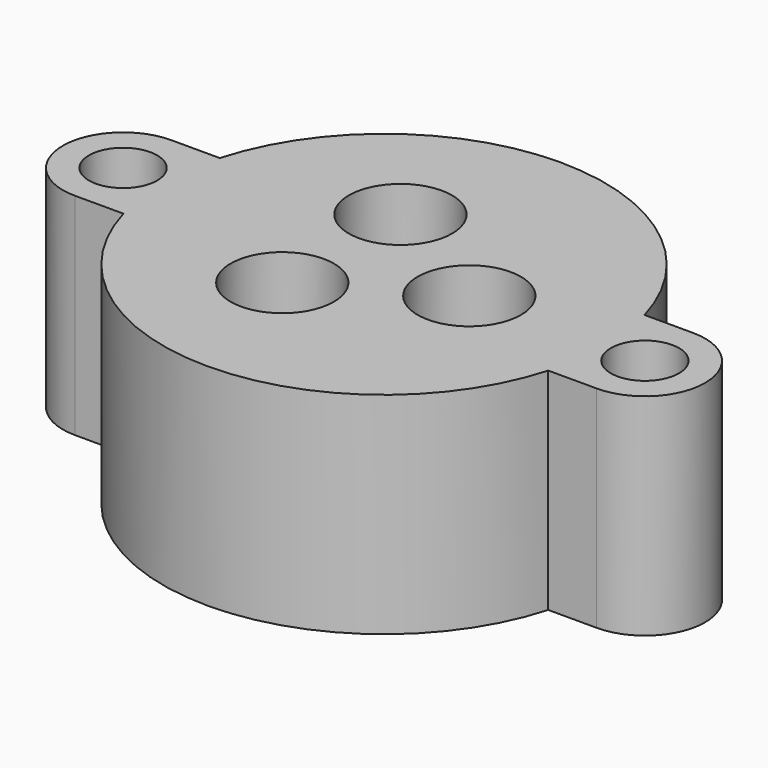
from build123d import *

# Parameters (mm, degrees)
CYLINDER161_R     = 1.7
CYLINDER161_DEPTH = 11
CYLINDER163_R     = 7.14375
CYLINDER163_DEPTH = 2.38125
CYLINDER160_R     = 9.525
CYLINDER160_DEPTH = 2.38125
CYLINDER167_R     = 2.2
CYLINDER167_DEPTH = 9
CYLINDER166_R     = 0.8
CYLINDER166_DEPTH = 5
CYLINDER162_R     = 2.575
CYLINDER162_DEPTH = 6
ARRAY001_COUNT    = 3
CYLINDER165_R     = 1.7
CYLINDER165_DEPTH = 11
BOX002_W          = 3
BOX002_H          = 6
BOX002_DEPTH      = 10.5
BOX003_W          = 3
BOX003_H          = 6
BOX003_DEPTH      = 10.5
CYLINDER168_R     = 3
CYLINDER168_DEPTH = 10.5
CYLINDER164_R     = 11
CYLINDER164_DEPTH = 10.5
CYLINDER169_R     = 3
CYLINDER169_DEPTH = 10.5


with BuildPart() as obj1:
    # Cylinder161 → Cylinder161 (new body)
    with BuildSketch(Plane(origin=(-13, 0, 0), x_dir=(1, 0, 0), z_dir=(0, 0, 1))):
        Circle(CYLINDER161_R)
    extrude(amount=CYLINDER161_DEPTH)


with BuildPart() as cylinder011:
    # Cylinder163 → Cylinder163 (new body)
    with BuildSketch(Plane.XY):
        Circle(CYLINDER163_R)
    extrude(amount=CYLINDER163_DEPTH)


with BuildPart() as oring001:
    # Cylinder160 → Cylinder160 (new body)
    with BuildSketch(Plane.XY):
        Circle(CYLINDER160_R)
    extrude(amount=CYLINDER160_DEPTH)

    # Cut022: cut Cylinder011
    add(cylinder011.part, mode=Mode.SUBTRACT)


with BuildPart() as oring001_1:
    # Cut022 placement: moved
    add(oring001.part.moved(Location((0, 0, -0.75))))


with BuildPart() as sealsubtraction001:
    # Cylinder167 → Cylinder167 (new body)
    with BuildSketch(Plane.XY.offset(1.3)):
        Circle(CYLINDER167_R)
    extrude(amount=CYLINDER167_DEPTH)


with BuildPart() as bottomwireoutlet001:
    # Cylinder166 → Cylinder166 (new body)
    with BuildSketch(Plane.XY.offset(-2)):
        Circle(CYLINDER166_R)
    extrude(amount=CYLINDER166_DEPTH)


with BuildPart() as sealarray001:
    # Cylinder162 → Cylinder162 (new body)
    with BuildSketch(Plane.XY.offset(4.5)):
        Circle(CYLINDER162_R)
    extrude(amount=CYLINDER162_DEPTH)

    # Fusion004: union SealSubtraction001, BottomWireOutlet001
    add(sealsubtraction001.part)
    add(bottomwireoutlet001.part)


with BuildPart() as sealarray001_1:
    # Fusion004 placement: moved
    add(sealarray001.part.moved(Location((4.25, 0, 0))))

    # Array001: SealArray001 ×3 about axis
    array001_axis = Axis((0, 0, 0), (0, 0, 1))


with BuildPart() as sealarray001_2:
    add(sealarray001_1.part)
    for i in range(1, ARRAY001_COUNT):
        add(sealarray001_1.part.rotate(array001_axis, i * 360 / ARRAY001_COUNT))


with BuildPart() as fusion005:
    # Cylinder165 → Cylinder165 (new body)
    with BuildSketch(Plane(origin=(13, 0, 0), x_dir=(1, 0, 0), z_dir=(0, 0, 1))):
        Circle(CYLINDER165_R)
    extrude(amount=CYLINDER165_DEPTH)

    # Fusion005: union obj1, Oring001, SealArray001
    add(obj1.part)
    add(oring001_1.part)
    add(sealarray001_2.part)


with BuildPart() as mountcube003:
    # Box002 → Box002 (new body)
    with BuildSketch(Plane(origin=(10, -3, 0), x_dir=(1, 0, 0), z_dir=(0, 0, 1))):
        with Locations((1.5, 3)):
            Rectangle(BOX002_W, BOX002_H)
    extrude(amount=BOX002_DEPTH)


with BuildPart() as mountcube004:
    # Box003 → Box003 (new body)
    with BuildSketch(Plane(origin=(-13, -3, 0), x_dir=(1, 0, 0), z_dir=(0, 0, 1))):
        with Locations((1.5, 3)):
            Rectangle(BOX003_W, BOX003_H)
    extrude(amount=BOX003_DEPTH)


with BuildPart() as mountflange003:
    # Cylinder168 → Cylinder168 (new body)
    with BuildSketch(Plane(origin=(-13, 0, 0), x_dir=(1, 0, 0), z_dir=(0, 0, 1))):
        Circle(CYLINDER168_R)
    extrude(amount=CYLINDER168_DEPTH)


with BuildPart() as body001:
    # Cylinder164 → Cylinder164 (new body)
    with BuildSketch(Plane.XY):
        Circle(CYLINDER164_R)
    extrude(amount=CYLINDER164_DEPTH)


with BuildPart() as cut021:
    # Cylinder169 → Cylinder169 (new body)
    with BuildSketch(Plane(origin=(13, 0, 0), x_dir=(1, 0, 0), z_dir=(0, 0, 1))):
        Circle(CYLINDER169_R)
    extrude(amount=CYLINDER169_DEPTH)

    # Fusion003: union MountCube003, MountCube004, MountFlange003, Body001
    add(mountcube003.part)
    add(mountcube004.part)
    add(mountflange003.part)
    add(body001.part)

    # Cut021: cut Fusion005
    add(fusion005.part, mode=Mode.SUBTRACT)


with BuildPart() as cut021_1:
    # Cut021 placement: moved
    add(cut021.part.moved(Location((0, 0, -10.5))))


solid = cut021_1.part
